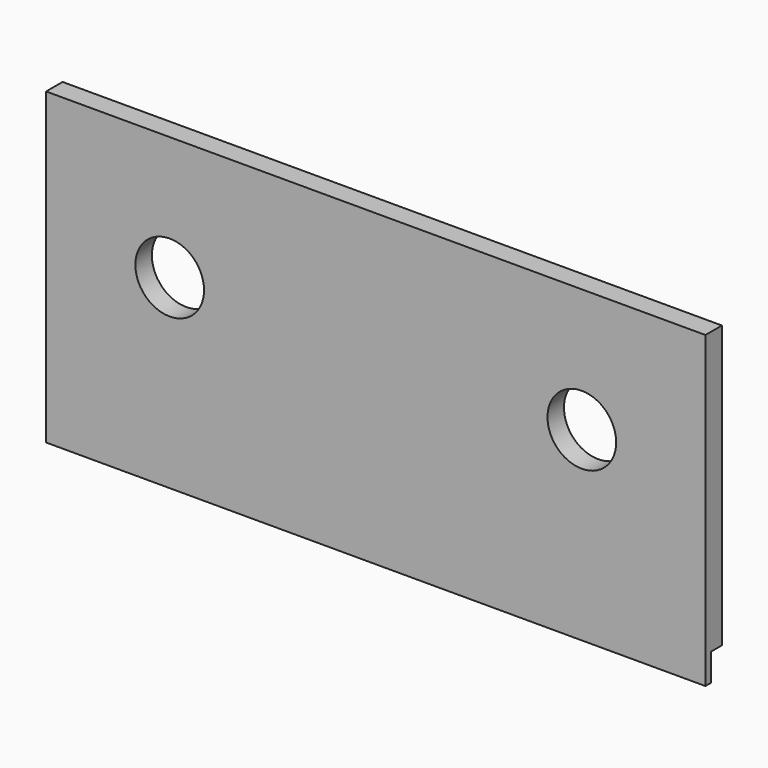
from build123d import *

# Parameters (mm, degrees)
F0_W     = 609.6
F0_H     = 285.75
F1_DEPTH = 19.05
F2_W     = 12.7
F2_H     = 25.4
F3_DEPTH = 609.601
F4_R     = 31.75
F5_DEPTH = 19.051


with BuildPart() as f1:
    # F0 (on Front) → F1 (new body)
    with BuildSketch(Plane.XZ):
        Rectangle(F0_W, F0_H)
    extrude(amount=F1_DEPTH)

    # F2 (on face) → F3 (cut, through all)
    with BuildSketch(Plane(origin=(-304.8, 0, 0), x_dir=(0, -1, 0), z_dir=(-1, 0, 0))):
        with Locations((6.35, -130.175)):
            Rectangle(F2_W, F2_H)
    extrude(amount=-F3_DEPTH, mode=Mode.SUBTRACT)

    # F4 (on face) → F5 (cut, through all)
    with BuildSketch(Plane.XZ.offset(19.05)):
        with Locations((-190.5, 28.575)):
            Circle(F4_R)
        with Locations((190.5, 28.575)):
            Circle(F4_R)
    extrude(amount=-F5_DEPTH, mode=Mode.SUBTRACT)


solid = f1.part
